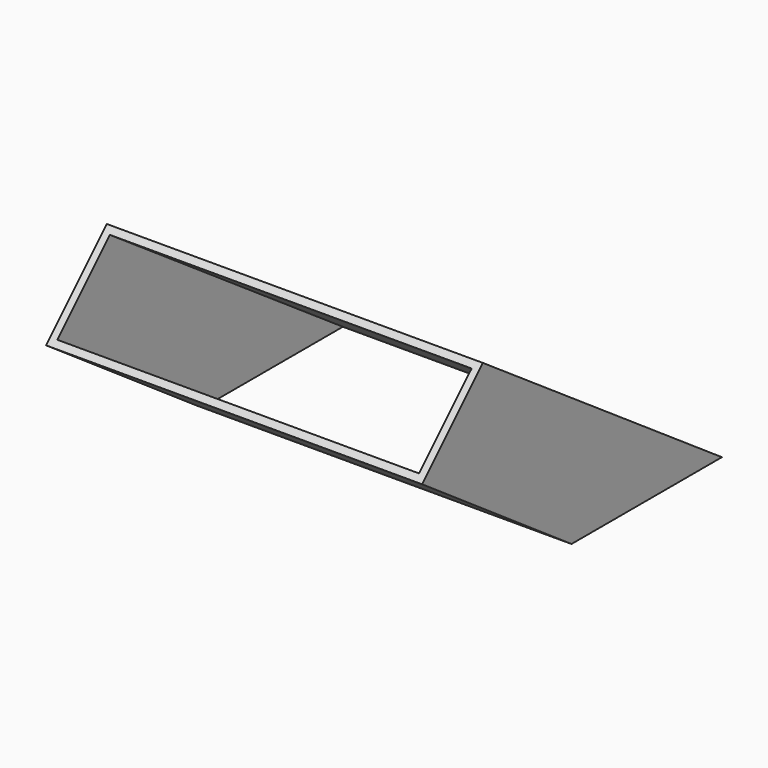
from build123d import *

# Parameters (mm, degrees)
F4_W = 133.35
F4_H = 38.1
F0_W = 133.35
F0_H = 66.675
F6_T = -2.54


with BuildPart() as f5:
    # F4 (on face) → F5 section 0
    with BuildSketch(Plane(origin=(0, -59.055, 59.055), x_dir=(1, 0, 0), z_dir=(0, 0.7071067812, -0.7071067812))):
        with Locations((60.325, 0.0451280605)):
            Rectangle(F4_W, F4_H)
    # F0 (on Top) → F5 section 1
    with BuildSketch(Plane.XY):
        with Locations((60.325, 26.9875)):
            Rectangle(F0_W, F0_H)
    loft()

    # F6
    f6_openings = [f5.faces().sort_by_distance(p)[0] for p in [
        (60.325, 26.9875, 0),
        (60.325, -59.08691, 59.02309),
    ]]
    offset(amount=F6_T, openings=f6_openings)


solid = f5.part
